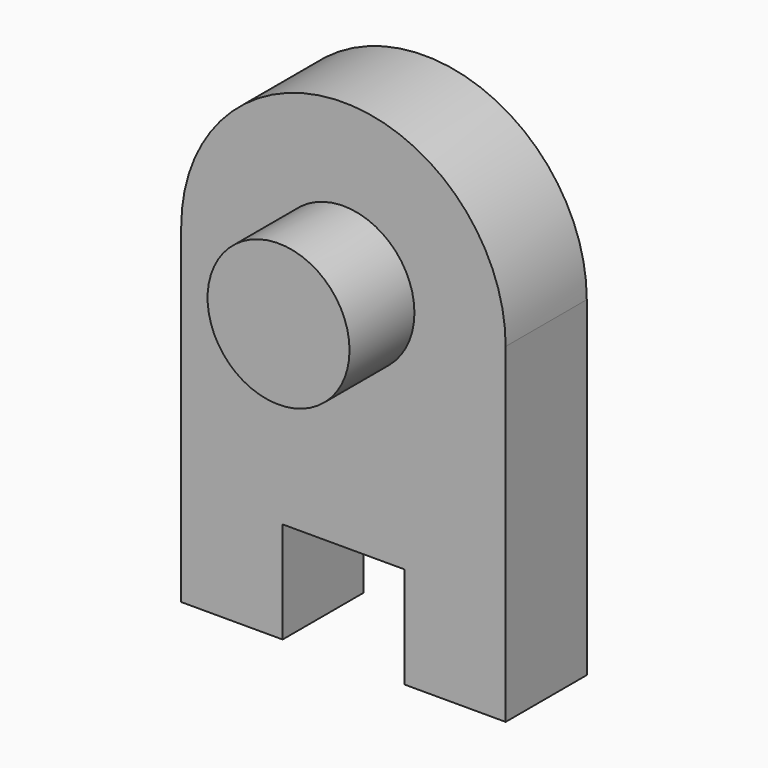
from build123d import *

# Parameters (mm, degrees)
F1_DEPTH = 250
F2_R     = 175
F3_DEPTH = 200
F4_R     = 175
F5_DEPTH = 200


with BuildPart() as f1:
    # F0 (on Front) → F1 (new body)
    with BuildSketch(Plane.XZ):
        with BuildLine():
            Line((400, -815.00775), (400, 0))
            ThreePointArc((400, 0), (0, 400), (-400, 0))
            Line((-400, 0), (-400, -815.00775))
            Line((-400, -815.00775), (-150, -815.00775))
            Line((-150, -815.00775), (-150, -565.00775))
            Line((-150, -565.00775), (150, -565.00775))
            Line((150, -565.00775), (150, -815.00775))
            Line((150, -815.00775), (400, -815.00775))
        make_face()
    extrude(amount=F1_DEPTH)

    # F2 (on face) → F3 (join)
    with BuildSketch(Plane(origin=(0, 0, 0), x_dir=(-1, 0, 0), z_dir=(0, 1, 0))):
        Circle(F2_R)
    extrude(amount=-F3_DEPTH)

    # F4 (on face) → F5 (join)
    with BuildSketch(Plane.XZ.offset(250)):
        Circle(F4_R)
    extrude(amount=F5_DEPTH)


solid = f1.part
